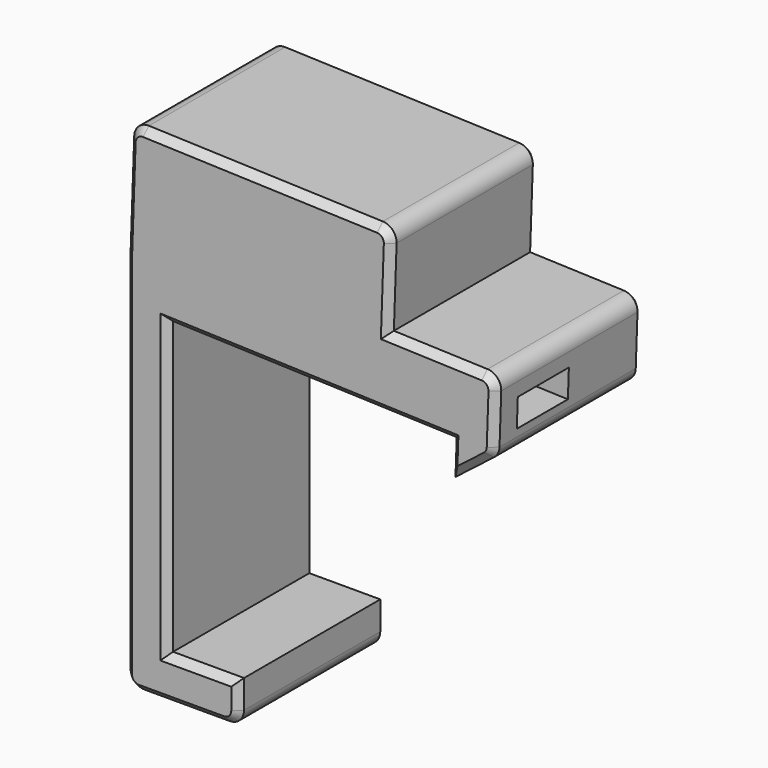
from build123d import *

# Parameters (mm, degrees)
F1_DEPTH  = 13
F2_R      = 1
F3_W      = 9.6065909414
F3_H      = 4.5
F4_DEPTH  = 2
F6_DEPTH  = 2
F9_DEPTH  = 4.5
F10_W     = 18.5
F10_H     = 13
F10_W_2   = 8.5
F10_H_2   = 9
F11_DEPTH = 2
F12_W     = 18.5
F12_H     = 13
F13_DEPTH = 2
F14_W     = 9
F14_H     = 7
F15_DEPTH = 6
F17_DEPTH = 9
F19_DEPTH = 8
F20_R     = 0.5
F21_R     = 1
F22_SIZE  = 0.5
F23_W     = 1.5
F23_H     = 5
F24_DEPTH = 0.5
F25_R     = 1
F26_SIZE  = 0.5
F27_W     = 5
F27_H     = 5
F28_DEPTH = 1.2


with BuildPart() as f1:
    # F0 (on Front) → F1 (new body)
    with BuildSketch(Plane.XZ):
        Polygon((5, -3), (5, 0), (0, 0), (0, 20.5124956581), (19.9878165404, 19.8145057241), (19.9005677986, 17.3160286565), (22.9859890214, 19.709807234), (23.0906875115, 22.707979715), (-3, 23.6190865995), (-3, -3), align=None)
    extrude(amount=F1_DEPTH)

    # F2
    f2_edges = [f1.edges().sort_by_distance(p)[0] for p in [
        (5, -6.5, -3),
        (22.985989, -6.5, 19.709807),
    ]]
    fillet(f2_edges, radius=F2_R)

    # F3 (on face) → F4 (cut)
    with BuildSketch(Plane(origin=(0.8201381725, 0, 23.4856844349), x_dir=(0.999390827, 0, -0.0348994967), z_dir=(0.0348994967, 0, 0.999390827))):
        Polygon((12.677533284, -2), (4.177533284, -2), (4.177533284, -11), (12.677533284, -11), (12.677533284, -6.5), align=None)
        with Locations((17.4808287547, -8.75)):
            Rectangle(F3_W, F3_H)
    extrude(amount=-F4_DEPTH, mode=Mode.SUBTRACT)

    # F5 (on face) → F6 (join)
    with BuildSketch(Plane(origin=(0.8201381725, 0, 23.4856844349), x_dir=(0.999390827, 0, -0.0348994967), z_dir=(0.0348994967, 0, 0.999390827))):
        Polygon((14.677533284, -4.5), (14.677533284, -13), (22.2841242254, -13), (22.2841242254, -4.4835860828), (22.2841242254, 0), (14.677533284, 0), align=None)
    extrude(amount=F6_DEPTH)

    # F8 (on face) → F9 (join)
    with BuildSketch(Plane(origin=(0.8201381725, 0, 23.4856844349), x_dir=(0.999390827, 0, -0.0348994967), z_dir=(0.0348994967, 0, 0.999390827))):
        Polygon((-3.822466716, -13), (14.677533284, -13), (14.677533284, 0), (-3.822466716, 0), (-3.822466716, -4), (4.177533284, -4), (4.177533284, -2), (12.677533284, -2), (12.677533284, -11), (4.177533284, -11), (-3.822466716, -11), align=None)
    extrude(amount=F9_DEPTH)

    # F10 (on face) → F11 (join)
    with BuildSketch(Plane(origin=(0.9771859077, 0, 27.9829431565), x_dir=(0.999390827, 0, -0.0348994967), z_dir=(0.0348994967, 0, 0.999390827))):
        with Locations((5.427533284, -6.5)):
            Rectangle(F10_W, F10_H)
        with Locations((8.427533284, -6.5)):
            Rectangle(F10_W_2, F10_H_2, mode=Mode.SUBTRACT)
    extrude(amount=F11_DEPTH)

    # F12 (on face) → F13 (join)
    with BuildSketch(Plane(origin=(1.0469849011, 0, 29.9817248106), x_dir=(0.999390827, 0, -0.0348994967), z_dir=(0.0348994967, 0, 0.999390827))):
        with Locations((5.427533284, -6.5)):
            Rectangle(F12_W, F12_H)
    extrude(amount=F13_DEPTH)

    # F14 (on face) → F15 (cut)
    with BuildSketch(Plane(origin=(-3.8201381725, 0, 0.1334021645), x_dir=(0, -1, 0), z_dir=(-0.999390827, 0, 0.0348994967))):
        with Locations((6.5, 25.5)):
            Rectangle(F14_W, F14_H)
    extrude(amount=-F15_DEPTH, mode=Mode.SUBTRACT)

    # F16 (on face) → F17 (cut, through all)
    with BuildSketch(Plane.XZ.offset(2)):
        Polygon((3.2231916907, 29.9057299949), (-1.2740670309, 30.0627777301), (-1.5881625012, 21.0682602869), (2.9090962204, 20.9112125517), align=None)
    extrude(amount=F17_DEPTH, mode=Mode.SUBTRACT)

    # F23 (on face) → F24 (cut)
    with BuildSketch(Plane(origin=(-3, 0, 0), x_dir=(0, -1, 0), z_dir=(-1, 0, 0))):
        with Locations((6.5, 8.5)):
            Rectangle(F23_W, F23_H)
        with BuildLine():
            Line((8, 8.8377223398), (8, 7.2303039929))
            ThreePointArc((8, 7.2303039929), (6.5, 17), (5, 7.2303039929))
            Line((5, 7.2303039929), (5, 8.8377223398))
            ThreePointArc((5, 8.8377223398), (6.5, 15.5), (8, 8.8377223398))
        make_face()
    extrude(amount=-F24_DEPTH, mode=Mode.SUBTRACT)

    # F25
    f25_edges = [f1.edges().sort_by_distance(p)[0] for p in [
        (-3, -6.5, -3),
        (-2.703354, -6.5, 32.113909),
        (15.785376, -6.5, 31.468268),
        (23.160487, -6.5, 24.706761),
    ]]
    fillet(f25_edges, radius=F25_R)

    # F26
    f26_edges = [f1.edges().sort_by_distance(p)[0] for p in [
        (1, -13, -3),
        (-2.707107, -13, -2.707107),
        (4.707107, -13, -2.707107),
        (-3, -13, 10.809543),
        (5, -13, -1),
        (-2.869127, -13, 27.366802),
        (2.5, -13, 0),
        (-2.420861, -13, 31.810972),
        (0, -13, 10.256248),
        (6.541011, -13, 31.791088),
        (9.993908, -13, 20.163501),
        (15.482439, -13, 31.185775),
        (19.944192, -13, 18.565267),
        (15.654503, -13, 27.720552),
        (21.258248, -13, 18.369365),
        (18.859812, -13, 24.856944),
        (22.893179, -13, 19.757295),
        (22.85755, -13, 24.424268),
        (23.063961, -13, 21.942634),
        (1, 0, -3),
        (-2.707107, 0, -2.707107),
        (4.707107, 0, -2.707107),
        (-3, 0, 10.809543),
        (5, 0, -1),
        (-2.869127, 0, 27.366802),
        (2.5, 0, 0),
        (-2.420861, 0, 31.810972),
        (0, 0, 10.256248),
        (6.541011, 0, 31.791088),
        (9.993908, 0, 20.163501),
        (15.482439, 0, 31.185775),
        (19.944192, 0, 18.565267),
        (15.654503, 0, 27.720552),
        (21.258248, 0, 18.369365),
        (18.859812, 0, 24.856944),
        (22.893179, 0, 19.757295),
        (22.85755, 0, 24.424268),
        (23.063961, 0, 21.942634),
    ]]
    chamfer(f26_edges, length=F26_SIZE)


with BuildPart() as f19:
    # F18 (on Front) → F19 (new body)
    with BuildSketch(Plane.XZ):
        Polygon((-0.0803513865, 21.2657587486), (0.2162943354, 29.7605807783), (-1.2827919051, 29.8129300233), (-1.3176914018, 28.8135391963), (-5.3152547099, 28.9531371831), (-5.5421014384, 22.4570968075), (-1.5445381303, 22.3174988207), (-1.5794376271, 21.3181079937), align=None)
    extrude(amount=F19_DEPTH)

    # F20
    f20_edges = [f19.edges().sort_by_distance(p)[0] for p in [
        (-5.315255, -4, 28.953137),
        (-5.542101, -4, 22.457097),
        (-5.428678, 0, 25.705117),
        (-5.428678, -8, 25.705117),
    ]]
    fillet(f20_edges, radius=F20_R)

    # F21
    f21_edges = [f19.edges().sort_by_distance(p)[0] for p in [
        (-0.533249, -8, 29.786755),
        (-0.533249, 0, 29.786755),
        (-0.829895, 0, 21.291933),
        (-0.829895, -8, 21.291933),
    ]]
    fillet(f21_edges, radius=F21_R)

    # F22
    f22_edges = [f19.edges().sort_by_distance(p)[0] for p in [
        (0.067971, -8, 25.51317),
    ]]
    chamfer(f22_edges, length=F22_SIZE)

    # F27 (on face) → F28 (cut)
    with BuildSketch(Plane(origin=(-0.8219656915, 0, 0.0287036744), x_dir=(0, 1, 0), z_dir=(0.999390827, 0, -0.0348994967))):
        with Locations((-4, 25.5)):
            Rectangle(F27_W, F27_H)
    extrude(amount=-F28_DEPTH, mode=Mode.SUBTRACT)


solid = Compound([f1.part, f19.part])
